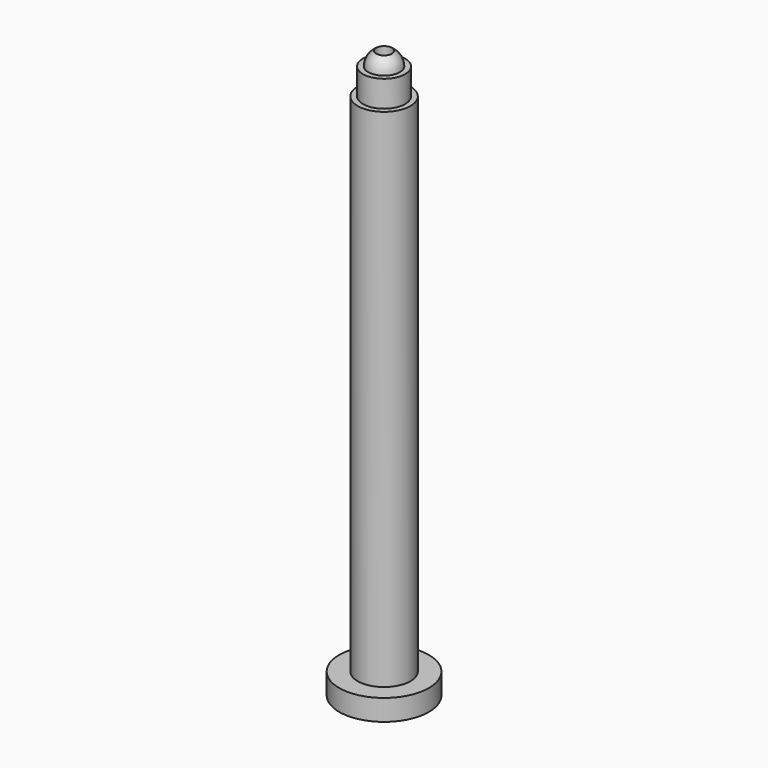
from build123d import *

# Parameters (mm, degrees)
F0_R     = 8.5
F1_DEPTH = 4
F2_R     = 5
F3_DEPTH = 100
F4_W     = 4
F4_H     = 5
F8_R     = 1.5
F9_DEPTH = 109.1


with BuildPart() as f1:
    # F0 (on Top) → F1 (new body)
    with BuildSketch(Plane.XY):
        Circle(F0_R)
    extrude(amount=F1_DEPTH)

    # F2 (on Top) → F3 (join)
    with BuildSketch(Plane.XY):
        Circle(F2_R)
    extrude(amount=F3_DEPTH)

    # F4 (on Right) → F5 (revolve)
    with BuildSketch(Plane.YZ):
        with Locations((2, 102.5)):
            Rectangle(F4_W, F4_H)
    revolve(axis=Axis((0, 0, 102.5), (0, 0, -1)))

    # F6 (on Right) → F7 (revolve)
    with BuildSketch(Plane.YZ):
        with BuildLine():
            ThreePointArc((3, 105), (2.12132, 107.12132), (0, 108))
            Line((0, 108), (0, 105))
            Line((0, 105), (3, 105))
        make_face()
    revolve(axis=Axis((0, 0, 106.5), (0, 0, -1)))

    # F8 (on Top) → F9 (cut)
    with BuildSketch(Plane.XY):
        Circle(F8_R)
    extrude(amount=F9_DEPTH, mode=Mode.SUBTRACT)


solid = f1.part
